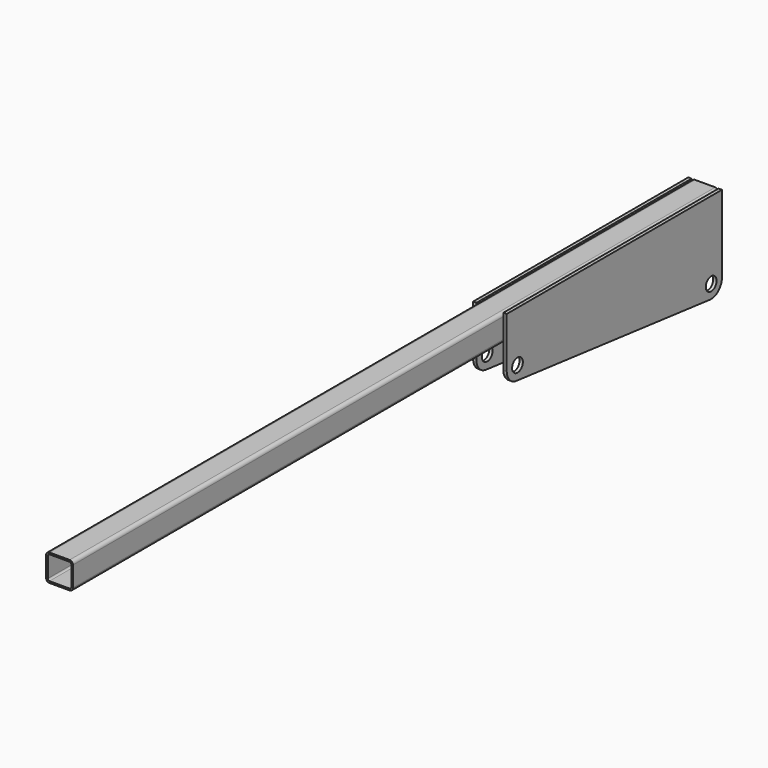
from build123d import *

# Parameters (mm, degrees)
F1_DEPTH = 600
F2_T     = -2.5
F3_R     = 10
F3_W     = 400
F3_H     = 30
F3_H_2   = 5
F4_DEPTH = 5


with BuildPart() as f1:
    # F0 (on Front) → F1 (new body, symmetric)
    with BuildSketch(Plane.XZ):
        with BuildLine():
            Line((-15, -20), (15, -20))
            ThreePointArc((15, -20), (18.535534, -18.535534), (20, -15))
            Line((20, -15), (20, 15))
            ThreePointArc((20, 15), (18.535534, 18.535534), (15, 20))
            Line((15, 20), (-15, 20))
            ThreePointArc((-15, 20), (-18.535534, 18.535534), (-20, 15))
            Line((-20, 15), (-20, -15))
            ThreePointArc((-20, -15), (-18.535534, -18.535534), (-15, -20))
        make_face()
    extrude(amount=F1_DEPTH, both=True)

    # F2
    f2_openings = [f1.faces().sort_by_distance(p)[0] for p in [
        (0, -600, 0),
        (0, 600, 0),
    ]]
    offset(amount=F2_T, openings=f2_openings)


with BuildPart() as f4:
    # F3 (on face) → F4 (new body)
    with BuildSketch(Plane.YZ.offset(20)):
        with BuildLine():
            Line((600, -95), (600, -15))
            Line((600, -15), (200, -15))
            Line((200, -15), (200, -55))
            ThreePointArc((200, -55), (205.09744, -68.338429), (217.791369, -74.877675))
            Line((217.791369, -74.877675), (577.791369, -114.877675))
            ThreePointArc((577.791369, -114.877675), (593.338429, -109.90256), (600, -95))
        make_face()
        with Locations((580, -95)):
            Circle(F3_R, mode=Mode.SUBTRACT)
        with Locations((220, -55)):
            Circle(F3_R, mode=Mode.SUBTRACT)
        with Locations((400, 0)):
            Rectangle(F3_W, F3_H)
        with Locations((400, 17.5)):
            Rectangle(F3_W, F3_H_2)
    extrude(amount=F4_DEPTH)


with BuildPart() as f5_1:
    # F5: instance of F4
    add(f4.part.mirror(Plane.YZ))


solid = Compound([f1.part, f4.part, f5_1.part])
